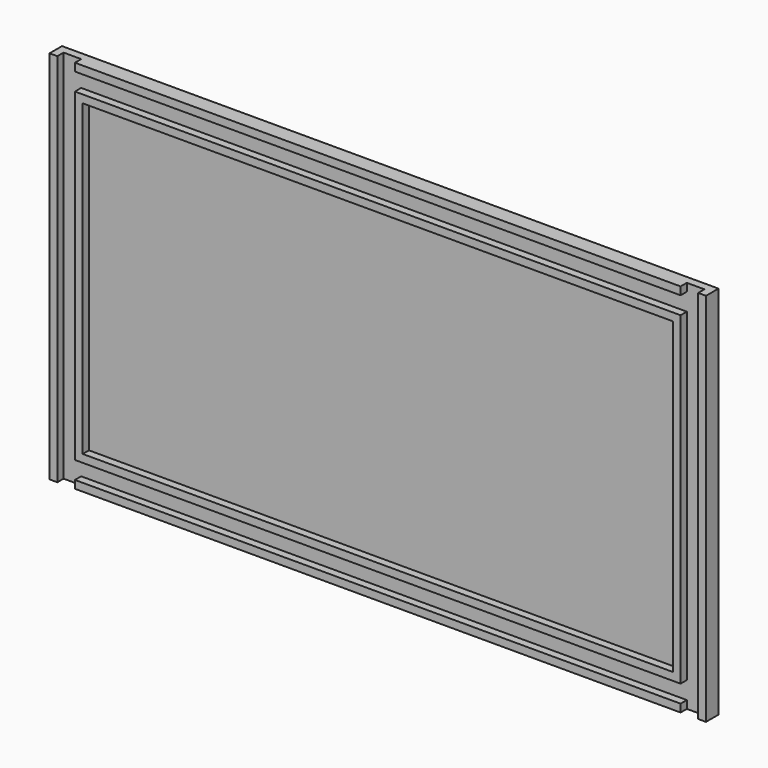
from build123d import *

# Parameters (mm, degrees)
F0_W      = 2133.6
F0_H      = 1219.2
F1_DEPTH  = 25.4
F2_W      = 1968.5
F2_H      = 25.4
F3_DEPTH  = 25.4
F4_W      = 1968.5
F4_H      = 25.4
F5_DEPTH  = 25.4
F6_W      = 25.4
F6_H      = 1219.2
F7_DEPTH  = 25.4
F8_W      = 25.4
F8_H      = 1219.2
F9_DEPTH  = 25.4
F10_W     = 1968.5
F10_H     = 25.4
F11_DEPTH = 25.4
F12_W     = 1968.5
F12_H     = 25.4
F13_DEPTH = 25.4
F14_W     = 25.4
F14_H     = 1003.3
F15_DEPTH = 25.4
F16_W     = 25.4
F16_H     = 1003.3
F17_DEPTH = 25.4


with BuildPart() as f1:
    # F0 (on Front) → F1 (new body)
    with BuildSketch(Plane.XZ):
        with Locations((1066.8, 609.6)):
            Rectangle(F0_W, F0_H)
    extrude(amount=F1_DEPTH)

    # F2 (on face) → F3 (join)
    with BuildSketch(Plane.XZ.offset(25.4)):
        with Locations((1066.8, 1206.5)):
            Rectangle(F2_W, F2_H)
    extrude(amount=F3_DEPTH)

    # F4 (on face) → F5 (join)
    with BuildSketch(Plane.XZ.offset(25.4)):
        with Locations((1066.8, 12.7)):
            Rectangle(F4_W, F4_H)
    extrude(amount=F5_DEPTH)

    # F6 (on face) → F7 (join)
    with BuildSketch(Plane.XZ.offset(25.4)):
        with Locations((12.7, 609.6)):
            Rectangle(F6_W, F6_H)
    extrude(amount=F7_DEPTH)

    # F8 (on face) → F9 (join)
    with BuildSketch(Plane.XZ.offset(25.4)):
        with Locations((2120.9, 609.6)):
            Rectangle(F8_W, F8_H)
    extrude(amount=F9_DEPTH)

    # F10 (on face) → F11 (join)
    with BuildSketch(Plane.XZ.offset(25.4)):
        with Locations((1066.8, 1123.95)):
            Rectangle(F10_W, F10_H)
    extrude(amount=F11_DEPTH)

    # F12 (on face) → F13 (join)
    with BuildSketch(Plane.XZ.offset(25.4)):
        with Locations((1066.8, 95.25)):
            Rectangle(F12_W, F12_H)
    extrude(amount=F13_DEPTH)

    # F14 (on face) → F15 (join)
    with BuildSketch(Plane.XZ.offset(25.4)):
        with Locations((2038.35, 609.6)):
            Rectangle(F14_W, F14_H)
    extrude(amount=F15_DEPTH)

    # F16 (on face) → F17 (join)
    with BuildSketch(Plane.XZ.offset(25.4)):
        with Locations((95.25, 609.6)):
            Rectangle(F16_W, F16_H)
    extrude(amount=F17_DEPTH)


solid = f1.part
